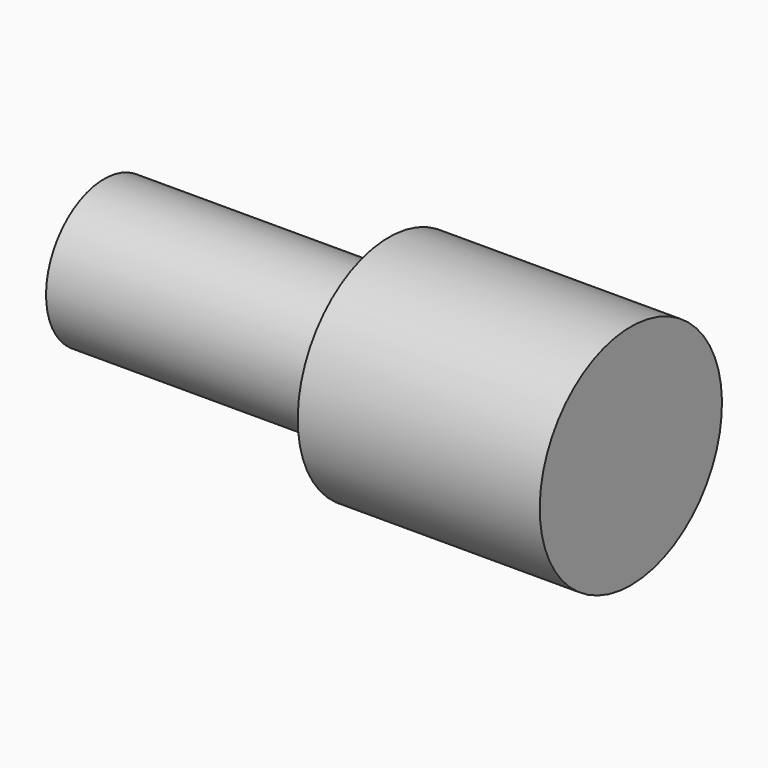
from build123d import *

# Parameters (mm, degrees)
F0_W = 10
F0_H = 2.55


with BuildPart() as f1:
    # F0 (on Front) → F1 (revolve)
    with BuildSketch(Plane.XZ):
        with Locations((-5, -1.275)):
            Rectangle(F0_W, F0_H)
    revolve(axis=Axis((-5, 0, 0), (-1, 0, 0)))

    # F0 (on Front) → F2 (revolve)
    with BuildSketch(Plane.XZ):
        Polygon((8.5, 0), (0, 0), (0, -2.55), (0, -3.999939), (8.5, -3.999939), align=None)
    revolve(axis=Axis((4.25, 0, 0), (-1, 0, 0)))


solid = f1.part
